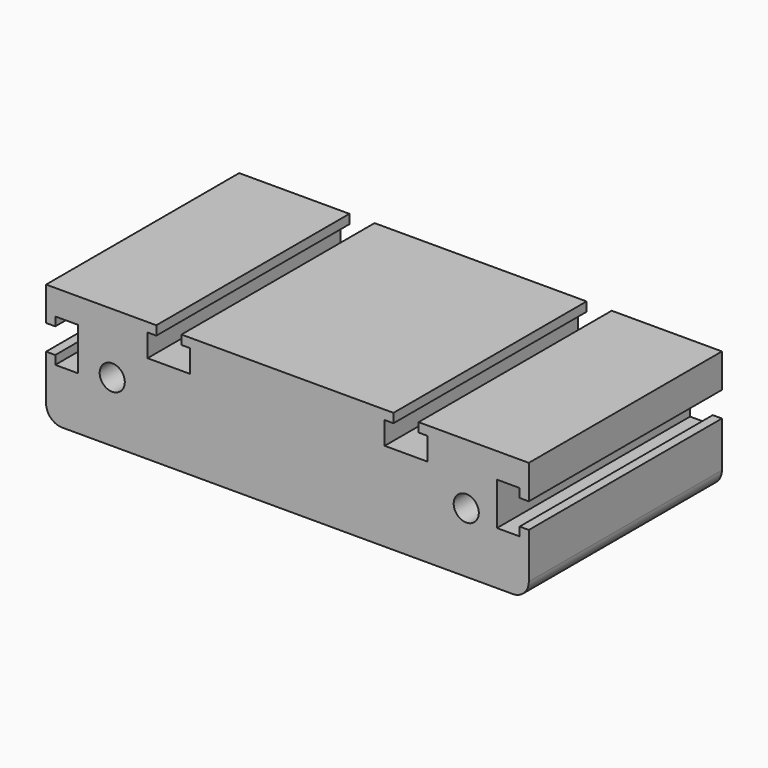
from build123d import *

# Parameters (mm, degrees)
F0_R     = 3.96875
F1_DEPTH = 76.2
F2_R     = 5.08


with BuildPart() as f1:
    # F0 (on Front) → F1 (new body)
    with BuildSketch(Plane.XZ):
        Polygon((-41.845214, 44.958014), (-76.643214, 44.958014), (-76.643214, 34.264614), (-73.747614, 34.264614), (-73.747614, 37.033214), (-66.584814, 37.033214), (-66.584814, 23.571214), (-73.747614, 23.571214), (-73.747614, 26.314414), (-76.643214, 26.314414), (-76.643214, 6.858014), (75.756786, 6.858014), (75.756786, 26.314414), (72.861186, 26.314414), (72.861186, 23.571214), (65.698386, 23.571214), (65.698386, 37.033214), (72.861186, 37.033214), (72.861186, 34.264614), (75.756786, 34.264614), (75.756786, 44.958014), (40.958786, 44.958014), (40.958786, 42.062414), (43.727386, 42.062414), (43.727386, 34.899614), (30.265386, 34.899614), (30.265386, 42.062414), (33.021286, 42.062414), (33.021286, 44.958014), (-33.907714, 44.958014), (-33.907714, 42.062414), (-31.151814, 42.062414), (-31.151814, 34.899614), (-44.613814, 34.899614), (-44.613814, 42.062414), (-41.845214, 42.062414), align=None)
        with Locations((-55.75828, 25.908014)):
            Circle(F0_R, mode=Mode.SUBTRACT)
        with Locations((56.00172, 25.908014)):
            Circle(F0_R, mode=Mode.SUBTRACT)
    extrude(amount=F1_DEPTH)

    # F2
    f2_edges = [f1.edges().sort_by_distance(p)[0] for p in [
        (-76.643214, -38.1, 6.858014),
        (75.756786, -38.1, 6.858014),
    ]]
    fillet(f2_edges, radius=F2_R)


solid = f1.part
